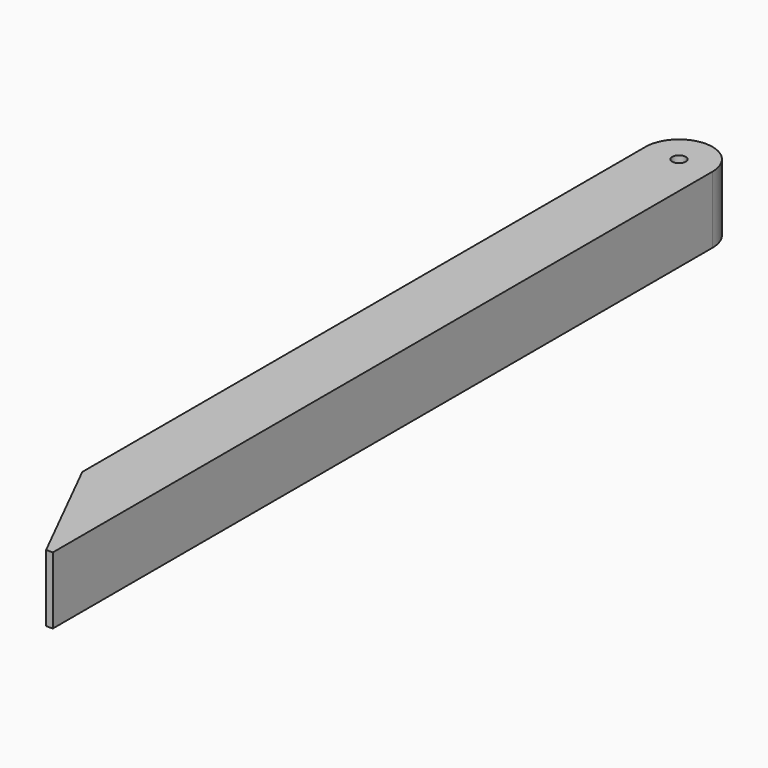
from build123d import *

# Parameters (mm, degrees)
F1_DEPTH = 10
F2_W     = 8
F2_H     = 8
F3_DEPTH = 150
F4_R     = 1
F5_DEPTH = 25
F6_W     = 2
F6_H     = 10
F7_DEPTH = 25


with BuildPart() as f1:
    # F0 (on Top) → F1 (new body)
    with BuildSketch(Plane.XY):
        Polygon((8.409432, 76.851626), (-1.590568, 76.851626), (-1.590568, -33.148374), (8.409432, -53.148374), align=None)
    extrude(amount=F1_DEPTH)

    # F2 (on face) → F3 (cut)
    with BuildSketch(Plane(origin=(0, 76.851626, 0), x_dir=(-1, 0, 0), z_dir=(0, 1, 0))):
        with Locations((-3.409432, 5)):
            Rectangle(F2_W, F2_H)
    extrude(amount=-F3_DEPTH, mode=Mode.SUBTRACT)

    # F4 (on face) → F5 (cut)
    with BuildSketch(Plane.XY.offset(10)):
        with BuildLine():
            ThreePointArc((-1.590568, 71.851626), (3.409432, 76.851626), (8.409432, 71.851626))
            Line((8.409432, 71.851626), (14.622306, 71.851626))
            Line((14.622306, 71.851626), (14.622306, 78.704596))
            Line((14.622306, 78.704596), (-2.961113, 78.068092))
            Line((-2.961113, 78.068092), (-2.736083, 71.851626))
            Line((-2.736083, 71.851626), (-1.590568, 71.851626))
        make_face()
        with Locations((3.409432, 71.851626)):
            Circle(F4_R)
    extrude(amount=-F5_DEPTH, mode=Mode.SUBTRACT)

    # F6 (on face) → F7 (cut)
    with BuildSketch(Plane.YZ.offset(8.409432)):
        Polygon((-51.148374, 19.7851), (-54.233824, 19.7851), (-54.233824, -10.105174), (-51.148374, -10.105174), (-51.148374, 0), (-53.148374, 0), (-53.148374, 10), (-51.148374, 10), align=None)
        with Locations((-52.148374, 5)):
            Rectangle(F6_W, F6_H)
    extrude(amount=-F7_DEPTH, mode=Mode.SUBTRACT)


solid = f1.part
